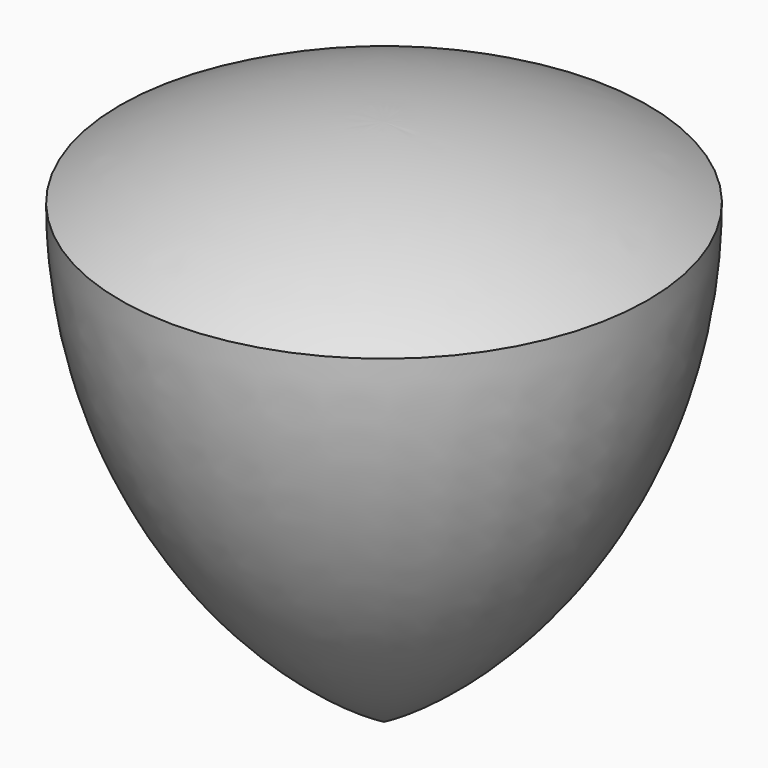
from build123d import *


with BuildPart() as f1:
    # F0 (on Front) → F1 (revolve)
    with BuildSketch(Plane.XZ):
        with BuildLine():
            Line((6.35, 1.701477), (6.35, -10.998523))
            ThreePointArc((6.35, -10.998523), (10.998523, -6.35), (12.7, 0))
            ThreePointArc((12.7, 0), (9.637002, 1.268735), (6.35, 1.701477))
        make_face()
    revolve(axis=Axis((6.35, 0, -4.648523), (0, 0, -1)))


solid = f1.part
